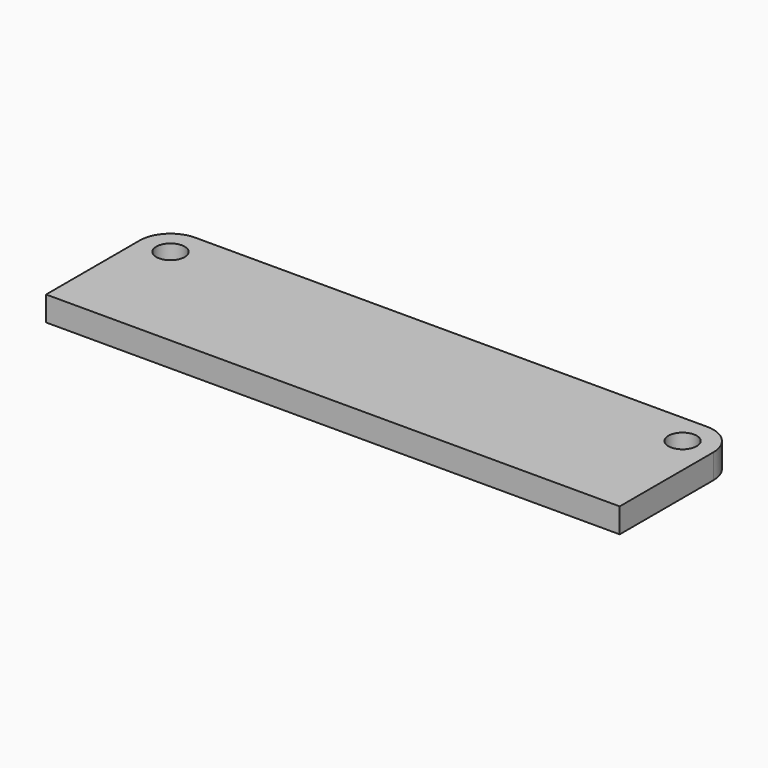
from build123d import *

# Parameters (mm, degrees)
F0_W     = 73.914
F0_H     = 19.05
F0_R     = 1.8288
F1_DEPTH = 3.175
F2_R     = 3.96875


with BuildPart() as f1:
    # F0 (on Top) → F1 (new body)
    with BuildSketch(Plane.XY):
        with Locations((36.957, -9.525)):
            Rectangle(F0_W, F0_H)
        with Locations((3.96875, -3.96875)):
            Circle(F0_R, mode=Mode.SUBTRACT)
        with Locations((69.94525, -3.96875)):
            Circle(F0_R, mode=Mode.SUBTRACT)
    extrude(amount=F1_DEPTH)

    # F2
    f2_edges = [f1.edges().sort_by_distance(p)[0] for p in [
        (0, 0, 1.5875),
        (73.914, 0, 1.5875),
    ]]
    fillet(f2_edges, radius=F2_R)


solid = f1.part
